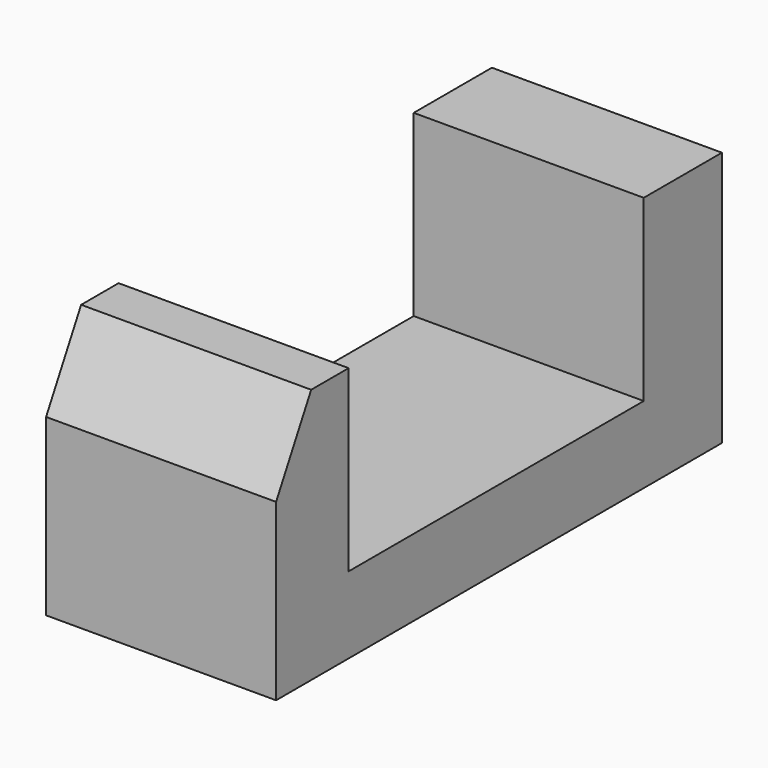
from build123d import *

# Parameters (mm, degrees)
F0_W     = 109.020278
F0_H     = 50
F1_DEPTH = 45
F3_DEPTH = 207
F4_W     = 72.165563
F4_H     = 35
F5_DEPTH = 228


with BuildPart() as f1:
    # F0 (on Right) → F1 (new body)
    with BuildSketch(Plane.YZ):
        with Locations((2.837837, -9.1723)):
            Rectangle(F0_W, F0_H)
    extrude(amount=F1_DEPTH)

    # F2 (on face) → F3 (cut)
    with BuildSketch(Plane.YZ.offset(45)):
        Polygon((-51.672302, 0), (-43.100026, 15.8277), (-51.672302, 15.8277), align=None)
    extrude(amount=-F3_DEPTH, mode=Mode.SUBTRACT)

    # F4 (on face) → F5 (cut)
    with BuildSketch(Plane.YZ.offset(45)):
        with Locations((2.14697, -1.6723)):
            Rectangle(F4_W, F4_H)
    extrude(amount=-F5_DEPTH, mode=Mode.SUBTRACT)


solid = f1.part
